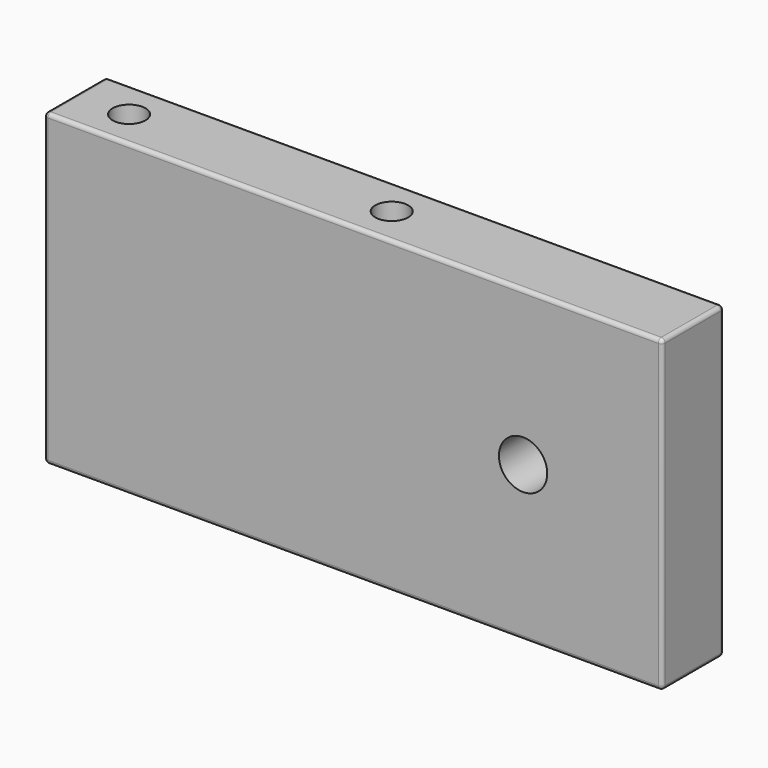
from build123d import *

# Parameters (mm, degrees)
F0_W     = 127
F0_H     = 63.5
F1_DEPTH = 15.875
F3_D     = 6.7564
F3_DEPTH = 19.05
F3_TIP   = 2.0298273432
F5_D     = 9.9314
F7_D     = 5.2324
F7_DEPTH = 7.9375
F7_TIP   = 1.5719715515
F8_R     = 0.79375


with BuildPart() as f1:
    # F0 (on Front) → F1 (new body)
    with BuildSketch(Plane.XZ):
        Rectangle(F0_W, F0_H)
    extrude(amount=-F1_DEPTH)

    # F3
    with Locations(Plane.XY.offset(31.75)):
        with Locations((-52.3875, 7.9375), (1.5875, 7.9375)):
            Hole(F3_D / 2, depth=F3_DEPTH)
            with Locations((0, 0, -(F3_DEPTH + F3_TIP / 2))):  # 118° drill point
                Cone(0, F3_D / 2, F3_TIP, mode=Mode.SUBTRACT)

    # F5 (through all)
    with Locations(Plane.XZ):
        with Locations((34.925, 0)):
            Hole(F5_D / 2)

    # F7
    with Locations(Plane(origin=(0, 15.875, 0), x_dir=(-1, 0, 0), z_dir=(0, 1, 0))):
        with Locations((-7.9375, -15.875)):
            Hole(F7_D / 2, depth=F7_DEPTH)
            with Locations((0, 0, -(F7_DEPTH + F7_TIP / 2))):  # 118° drill point
                Cone(0, F7_D / 2, F7_TIP, mode=Mode.SUBTRACT)

    # F8
    f8_edges = [f1.edges().sort_by_distance(p)[0] for p in [
        (0, 0, 31.75),
        (-63.5, 7.9375, 31.75),
        (0, 15.875, 31.75),
        (63.5, 7.9375, 31.75),
        (63.5, 0, 0),
        (63.5, 15.875, 0),
        (-63.5, 15.875, 0),
        (-63.5, 0, 0),
        (-63.5, 7.9375, -31.75),
        (0, 15.875, -31.75),
        (0, 0, -31.75),
        (63.5, 7.9375, -31.75),
    ]]
    fillet(f8_edges, radius=F8_R)


solid = f1.part
